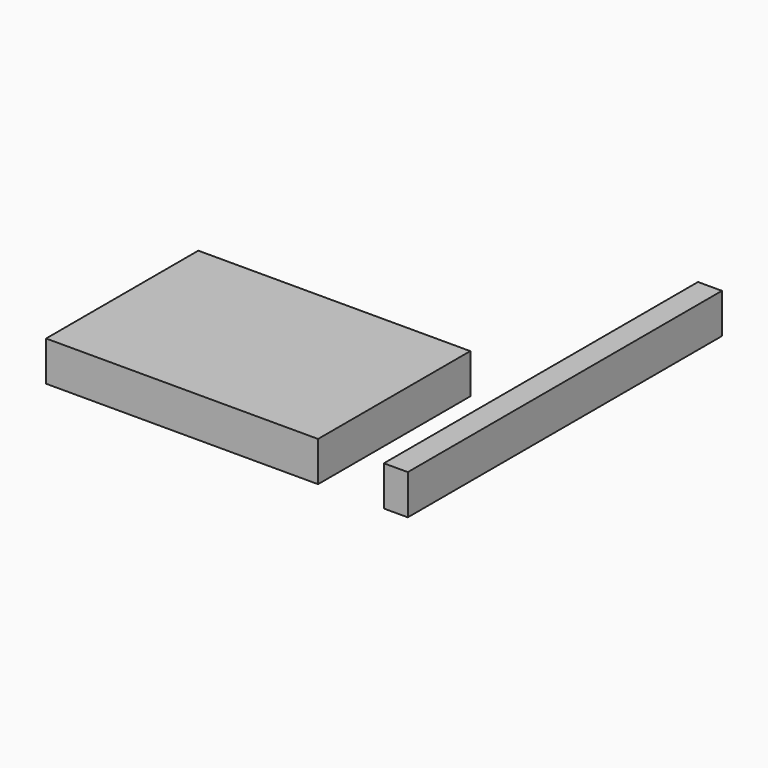
from build123d import *

# Parameters (mm, degrees)
F0_W     = 6.930254
F0_H     = 113.715499
F0_W_2   = 78.767076
F0_H_2   = 55.102482
F1_DEPTH = 11.538003


with BuildPart() as f1:
    # F0 (on Top) → F1 (new body)
    with BuildSketch(Plane.XY):
        with Locations((53.244855, 1.755268)):
            Rectangle(F0_W, F0_H)
        with Locations((-8.666992, -27.551241)):
            Rectangle(F0_W_2, F0_H_2)
    extrude(amount=F1_DEPTH)


solid = f1.part
